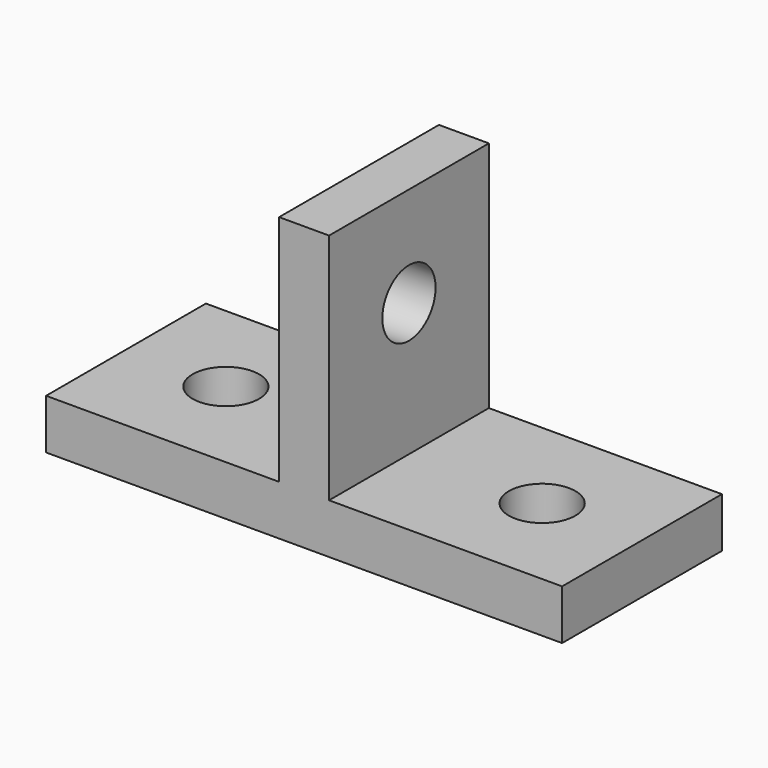
from build123d import *

# Parameters (mm, degrees)
F0_W     = 98.425
F0_H     = 38.1
F1_DEPTH = 9.525
F3_D     = 12.7
F5_DEPTH = 44.45
F7_D     = 12.7


with BuildPart() as f1:
    # F0 (on Top) → F1 (new body)
    with BuildSketch(Plane.XY):
        with Locations((-27.238064, 36.847196)):
            Rectangle(F0_W, F0_H)
    extrude(amount=F1_DEPTH)

    # F3 (through all)
    with Locations(Plane.XY.offset(9.525)):
        with Locations((-57.400564, 36.847196), (2.924436, 36.847196)):
            Hole(F3_D / 2)

    # F4 (on face) → F5 (join)
    with BuildSketch(Plane.XY.offset(9.525)):
        Polygon((-32.000564, 17.797196), (-27.238064, 17.797196), (-22.475564, 17.797196), (-22.475564, 55.897196), (-27.238064, 55.897196), (-32.000564, 55.897196), align=None)
    extrude(amount=F5_DEPTH)

    # F7 (through all)
    with Locations(Plane.YZ.offset(-22.475564)):
        with Locations((36.847196, 34.925)):
            Hole(F7_D / 2)


solid = f1.part
